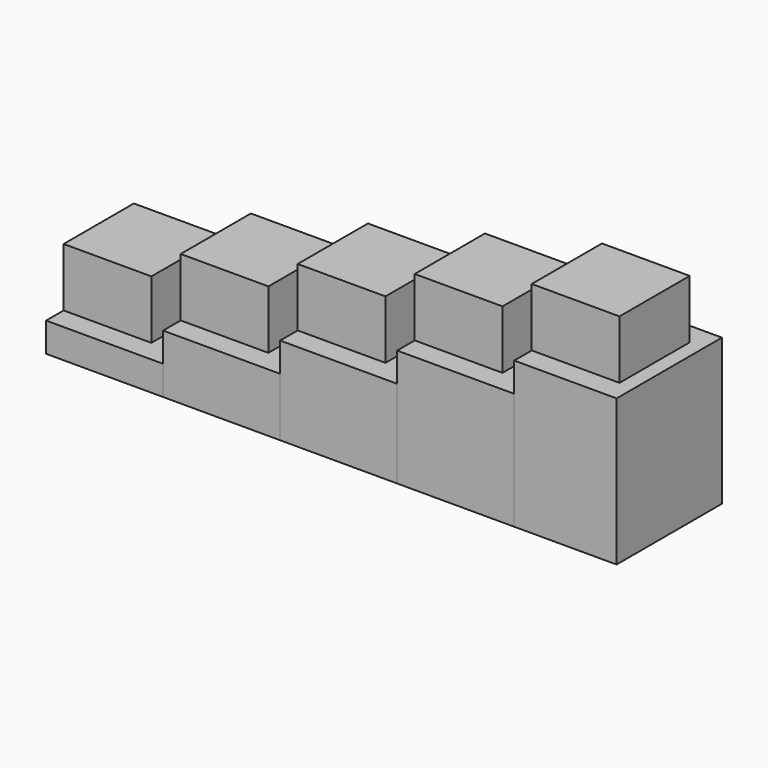
from build123d import *

# Parameters (mm, degrees)
F0_W      = 7.62
F0_H      = 7.62
F1_DEPTH  = 7.62
F2_DEPTH  = 2.54
F3_DEPTH  = 10.16
F4_DEPTH  = 5.08
F5_DEPTH  = 12.7
F6_DEPTH  = 7.62
F7_DEPTH  = 15.24
F8_DEPTH  = 10.16
F9_DEPTH  = 17.78
F10_DEPTH = 12.7


with BuildPart() as f1:
    # F0 (on Top) → F1 (new body)
    with BuildSketch(Plane.XY):
        with Locations((-61.013542, 13.986675)):
            Rectangle(F0_W, F0_H)
    extrude(amount=F1_DEPTH)

    # F0 (on Top) → F2 (join)
    with BuildSketch(Plane.XY):
        Polygon((-64.823542, 8.271675), (-54.663542, 8.271675), (-54.663542, 10.176675), (-54.663542, 17.796675), (-54.663542, 19.701675), (-64.823542, 19.701675), (-64.823542, 17.796675), (-57.203542, 17.796675), (-57.203542, 10.176675), (-64.823542, 10.176675), align=None)
    extrude(amount=F2_DEPTH)


with BuildPart() as f3:
    # F0 (on Top) → F3 (new body)
    with BuildSketch(Plane.XY):
        with Locations((-50.853542, 13.986675)):
            Rectangle(F0_W, F0_H)
    extrude(amount=F3_DEPTH)


with BuildPart() as f4:
    # F0 (on Top) → F4 (new body)
    with BuildSketch(Plane.XY):
        Polygon((-54.663542, 8.271675), (-44.503542, 8.271675), (-44.503542, 10.176675), (-44.503542, 17.796675), (-44.503542, 19.701675), (-54.663542, 19.701675), (-54.663542, 17.796675), (-47.043542, 17.796675), (-47.043542, 10.176675), (-54.663542, 10.176675), align=None)
    extrude(amount=F4_DEPTH)


with BuildPart() as f5:
    # F0 (on Top) → F5 (new body)
    with BuildSketch(Plane.XY):
        with Locations((-40.693542, 13.986675)):
            Rectangle(F0_W, F0_H)
    extrude(amount=F5_DEPTH)


with BuildPart() as f6:
    # F0 (on Top) → F6 (new body)
    with BuildSketch(Plane.XY):
        Polygon((-44.503542, 8.271675), (-34.343542, 8.271675), (-34.343542, 10.176675), (-34.343542, 17.796675), (-34.343542, 19.701675), (-44.503542, 19.701675), (-44.503542, 17.796675), (-36.883542, 17.796675), (-36.883542, 10.176675), (-44.503542, 10.176675), align=None)
    extrude(amount=F6_DEPTH)


with BuildPart() as f7:
    # F0 (on Top) → F7 (new body)
    with BuildSketch(Plane.XY):
        with Locations((-30.533542, 13.986675)):
            Rectangle(F0_W, F0_H)
    extrude(amount=F7_DEPTH)


with BuildPart() as f8:
    # F0 (on Top) → F8 (new body)
    with BuildSketch(Plane.XY):
        Polygon((-34.343542, 8.271675), (-24.183542, 8.271675), (-24.183542, 10.176675), (-24.183542, 17.796675), (-24.183542, 19.701675), (-34.343542, 19.701675), (-34.343542, 17.796675), (-26.723542, 17.796675), (-26.723542, 10.176675), (-34.343542, 10.176675), align=None)
    extrude(amount=F8_DEPTH)


with BuildPart() as f9:
    # F0 (on Top) → F9 (new body)
    with BuildSketch(Plane.XY):
        with Locations((-20.373542, 13.986675)):
            Rectangle(F0_W, F0_H)
    extrude(amount=F9_DEPTH)


with BuildPart() as f10:
    # F0 (on Top) → F10 (new body)
    with BuildSketch(Plane.XY):
        Polygon((-24.183542, 8.271675), (-15.293542, 8.271675), (-15.293542, 19.701675), (-24.183542, 19.701675), (-24.183542, 17.796675), (-16.563542, 17.796675), (-16.563542, 10.176675), (-24.183542, 10.176675), align=None)
    extrude(amount=F10_DEPTH)


solid = Compound([f1.part, f3.part, f4.part, f5.part, f6.part, f7.part, f8.part, f9.part, f10.part])
